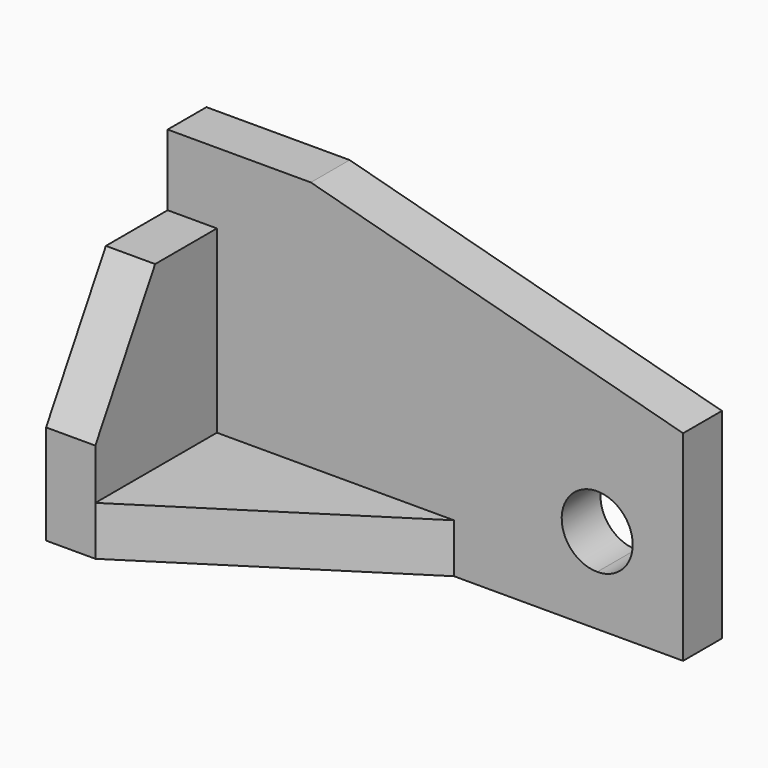
from build123d import *

# Parameters (mm, degrees)
F1_DEPTH = 66.548
F0_W     = 10.9235864809
F0_H     = 33.6925396672
F2_DEPTH = 10.922
F4_DEPTH = 10.7584603328
F5_DEPTH = 50.8
F7_DEPTH = 127
F8_DEPTH = 127


with BuildPart() as f1:
    # F0 (on Top) → F1 (new body)
    with BuildSketch(Plane.XY):
        Polygon((37.8037942689, 44.45), (-76.4962057311, 44.45), (-76.4962057311, 33.6925396672), (-65.5726192503, 33.6925396672), (-12.9962057311, 33.6925396672), (37.8037942689, 33.6925396672), align=None)
    extrude(amount=F1_DEPTH)

    # F0 (on Top) → F2 (join)
    with BuildSketch(Plane.XY):
        with Locations((-71.0344124907, 16.8462698336)):
            Rectangle(F0_W, F0_H)
        Polygon((-12.9962057311, 33.6925396672), (-65.5726192503, 33.6925396672), (-65.5726192503, 0), align=None)
    extrude(amount=F2_DEPTH)

    # F3 (on face) → F4 (cut, through all)
    with BuildSketch(Plane.XZ.offset(-33.6925396672)):
        with BuildLine():
            ThreePointArc((26.6277942689, 19.05), (13.1860354738, 24.6177587951), (18.7537942689, 11.176))
            ThreePointArc((18.7537942689, 11.176), (24.3215530639, 13.4822412049), (26.6277942689, 19.05))
        make_face()
    extrude(amount=-F4_DEPTH, mode=Mode.SUBTRACT)

    # F0 (on Top) → F5 (join)
    with BuildSketch(Plane.XY):
        with Locations((-71.0344124907, 16.8462698336)):
            Rectangle(F0_W, F0_H)
    extrude(amount=F5_DEPTH)

    # F6 (on face) → F7 (cut)
    with BuildSketch(Plane.YZ.offset(-65.5726192503)):
        Polygon((0, 50.8), (0, 22.098), (16.5711074263, 50.8), align=None)
    extrude(amount=-F7_DEPTH, mode=Mode.SUBTRACT)

    # F3 (on face) → F8 (cut)
    with BuildSketch(Plane.XZ.offset(-33.6925396672)):
        Polygon((-44.7462057311, 66.548), (37.8037942689, 44.4287941648), (37.8037942689, 66.548), align=None)
    extrude(amount=-F8_DEPTH, mode=Mode.SUBTRACT)


solid = f1.part
